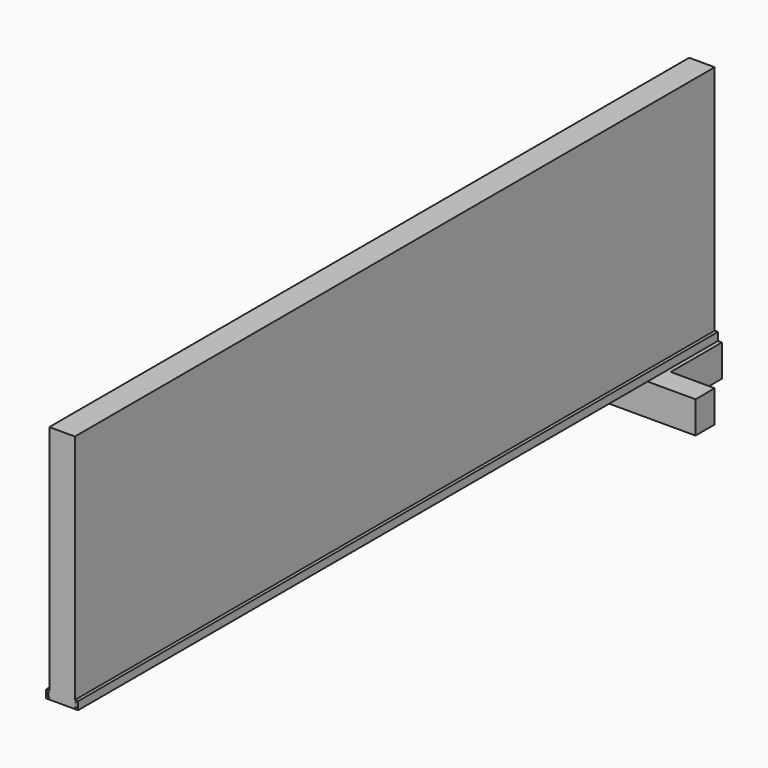
from build123d import *

# Parameters (mm, degrees)
F1_DEPTH  = 500
F3_DEPTH  = 500
F4_R      = 1.5
F5_DEPTH  = 7.5
F7_W      = 16
F7_H      = 500
F8_DEPTH  = 150
F9_R      = 1.5
F10_DEPTH = 20


with BuildPart() as f1:
    # F0 (on Front) → F1 (new body)
    with BuildSketch(Plane.XZ):
        Polygon((-8, 4), (-8, 5), (-10, 5), (-10, 0), (0, 0), (0, 1), (-9, 1), (-9, 4), align=None)
        Polygon((0, 1), (0, 0), (10, 0), (10, 5), (8, 5), (8, 4), (9, 4), (9, 1), align=None)
    extrude(amount=F1_DEPTH)


with BuildPart() as f3:
    # F2 (on Front) → F3 (new body)
    with BuildSketch(Plane.XZ):
        Polygon((0, 5), (-7.9, 5), (-7.9, 3.9), (-8.9, 3.9), (-8.9, 1.1), (0, 1.1), align=None)
        Polygon((7.9, 5), (0, 5), (0, 1.1), (8.9, 1.1), (8.9, 3.9), (7.9, 3.9), align=None)
    extrude(amount=F3_DEPTH)


with BuildPart() as f5:
    # F4 (on face) → F5 (new body, symmetric)
    with BuildSketch(Plane.XY.offset(5)):
        with Locations((0, -490)):
            Circle(F4_R)
        with Locations((0, -480)):
            Circle(F4_R)
        with Locations((0, -20)):
            Circle(F4_R)
        with Locations((0, -10)):
            Circle(F4_R)
    extrude(amount=F5_DEPTH, both=True)


with BuildPart() as f3_1:
    add(f3.part)

    # F6: cut F5
    add(f5.part, mode=Mode.SUBTRACT)


with BuildPart() as f1_1:
    add(f1.part)

    # F6: cut F5
    add(f5.part, mode=Mode.SUBTRACT)


with BuildPart() as f8:
    # F7 (on Top) → F8 (new body)
    with BuildSketch(Plane.XY):
        with Locations((0, -250)):
            Rectangle(F7_W, F7_H)
    extrude(amount=F8_DEPTH)


with BuildPart() as f10:
    # F9 (on Top) → F10 (new body)
    with BuildSketch(Plane.XY):
        Polygon((40, -55), (40, -40), (12.5, -40), (12.5, 0), (-12.5, 0), (-12.5, -40), (-40, -40), (-40, -55), align=None)
        with Locations((0, -20)):
            Circle(F9_R, mode=Mode.SUBTRACT)
        with Locations((0, -10)):
            Circle(F9_R, mode=Mode.SUBTRACT)
    extrude(amount=-F10_DEPTH)


solid = Compound([f3_1.part, f1_1.part, f8.part, f10.part])
